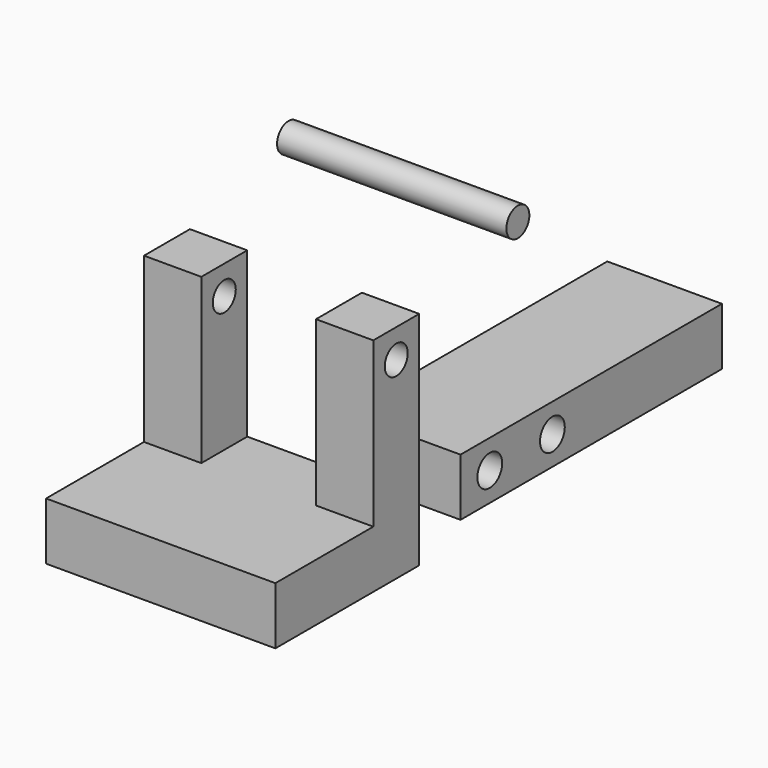
from build123d import *

# Parameters (mm, degrees)
F0_W     = 71.2464526296
F0_H     = 12.5193465501
F0_R     = 3.3769848897
F1_DEPTH = 12.5
F2_R     = 3.1313890556
F3_DEPTH = 25
F4_W     = 25
F4_H     = 35.7612390071
F5_DEPTH = 110.6515803764
F6_R     = 3.1313890556
F7_DEPTH = 25


with BuildPart() as f1:
    # F0 (on Right) → F1 (new body, symmetric)
    with BuildSketch(Plane.YZ):
        with Locations((35.6232263148, 0)):
            Rectangle(F0_W, F0_H)
        with Locations((7.9668546095, 0)):
            Circle(F0_R, mode=Mode.SUBTRACT)
        with Locations((25.0386893749, 0)):
            Circle(F0_R, mode=Mode.SUBTRACT)
    extrude(amount=F1_DEPTH, both=True)


with BuildPart() as f3:
    # F2 (on Right) → F3 (new body, symmetric)
    with BuildSketch(Plane.YZ):
        Polygon((-66.0917535424, 12.5193465501), (-66.0917535424, 0), (-26.8847811967, 0), (-26.8847811967, 48.2805855572), (-39.4041277468, 48.2805855572), (-39.4041277468, 12.5193465501), align=None)
        with Locations((-33.1444544718, 42.0074723661)):
            Circle(F2_R, mode=Mode.SUBTRACT)
    extrude(amount=F3_DEPTH, both=True)

    # F4 (on face) → F5 (cut, through all)
    with BuildSketch(Plane.XZ.offset(39.4041277468)):
        with Locations((0, 30.3999660537)):
            Rectangle(F4_W, F4_H)
    extrude(amount=-F5_DEPTH, mode=Mode.SUBTRACT)


with BuildPart() as f7:
    # F6 (on Right) → F7 (new body, symmetric)
    with BuildSketch(Plane.YZ):
        with Locations((0, 55.001784116)):
            Circle(F6_R)
    extrude(amount=F7_DEPTH, both=True)


solid = Compound([f1.part, f3.part, f7.part])
